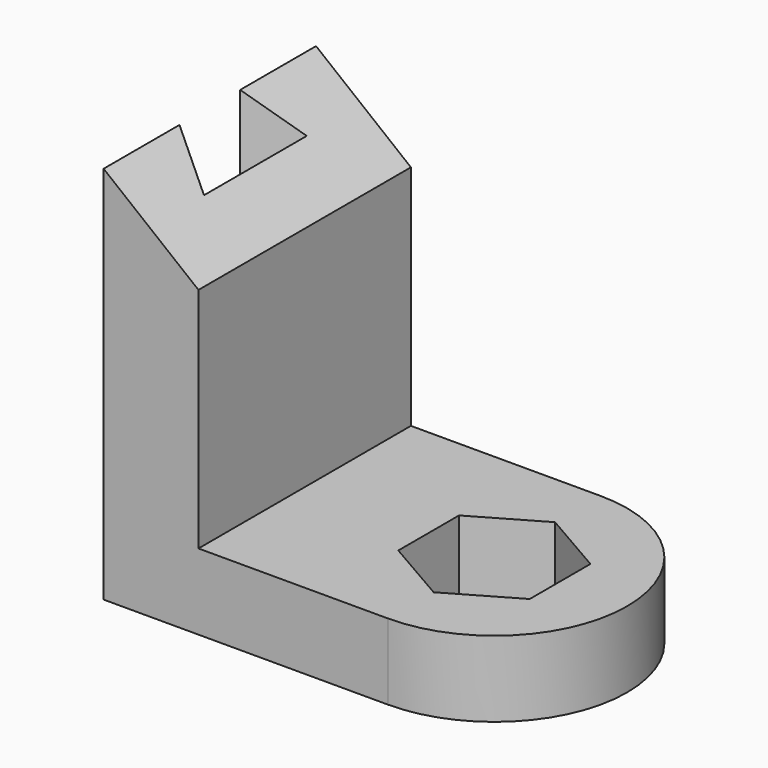
from build123d import *

# Parameters (mm, degrees)
PAD_DEPTH    = 35
PAD001_DEPTH = 20
POCKET_DEPTH = 100.001


with BuildPart() as part:
    # Sketch → Pad (new body, symmetric)
    with BuildSketch(Plane.XZ):
        Polygon((0, 100), (0, 0), (75, 0), (75, 20), (25, 20), (25, 80), align=None)
    extrude(amount=PAD_DEPTH, both=True)

    # Sketch001 → Pad001 (join)
    with BuildSketch(Plane.XY):
        with BuildLine():
            ThreePointArc((75, -35), (110, 0), (75, 35))
            Line((75, 35), (75, -35))
        make_face()
    extrude(amount=PAD001_DEPTH)

    # Sketch002 → Pocket (cut, through all)
    with BuildSketch(Plane.XY):
        Polygon((0, 10), (0, -10), (12, -16.928203), (12, 16.928203), align=None)
        Polygon((57.679492, -10), (75, -20), (92.320508, -10), (92.320508, 10), (75, 20), (57.679492, 10), align=None)
    extrude(amount=POCKET_DEPTH, mode=Mode.SUBTRACT)


solid = part.part
